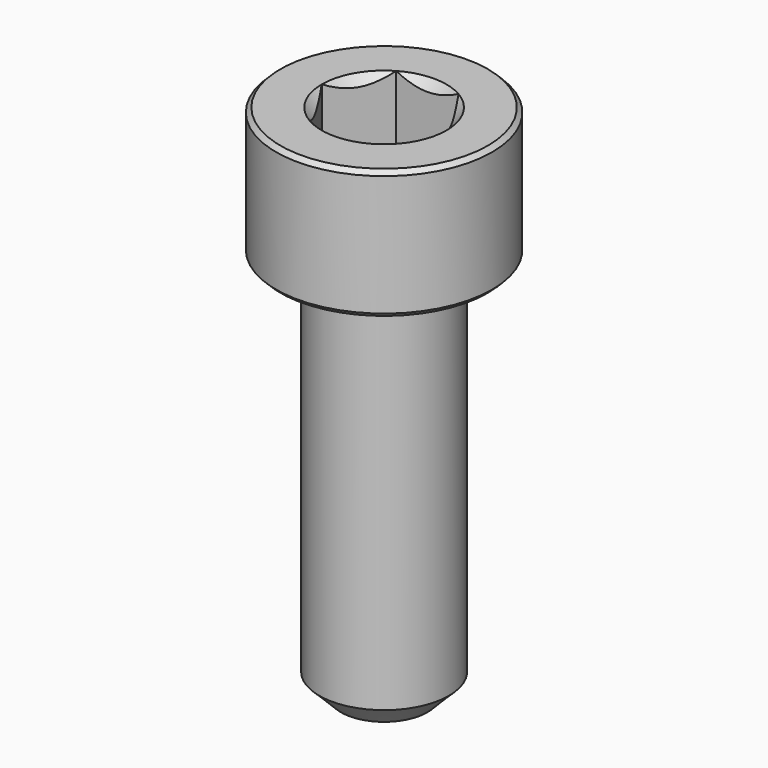
from build123d import *

# Parameters (mm, degrees)
SKETCH001_R     = 6
POCKET_DEPTH    = 8.820854
CHAMFER_SIZE    = 0.2
CHAMFER001_SIZE = 1


with BuildPart() as pocket:
    # Sketch003 → Revolution001 (revolve)
    with BuildSketch(Plane.XZ):
        Polygon((0, 1.180146), (5, 3), (5, 10), (0, 10), align=None)
    revolve(axis=Axis((0, 0, 0), (0, 0, 1)))

    # Sketch001 (on Face3 of Revolution001) → Pocket (cut, through all)
    with BuildSketch(Plane(origin=(0, 0, 10), x_dir=(-1, 0, 0), z_dir=(0, 0, 1))):
        Circle(SKETCH001_R)
        Polygon((-1.443376, 2.5), (1.443376, 2.5), (2.886751, 0), (1.443376, -2.5), (-1.443376, -2.5), (-2.886751, 0), align=None, mode=Mode.SUBTRACT)
    extrude(amount=-POCKET_DEPTH, mode=Mode.SUBTRACT)


with BuildPart() as chamfer001:
    # Sketch → Revolution (revolve)
    with BuildSketch(Plane.XZ):
        Polygon((2.88675, 6), (5, 6), (5, 0), (3, 0), (3, -18), (0, -18), (0, 3.113247), align=None)
    revolve(axis=Axis((0, 0, 0), (0, 0, 1)))

    # Cut: cut Pocket
    add(pocket.part, mode=Mode.SUBTRACT)

    # Chamfer
    chamfer_edges = [chamfer001.edges().sort_by_distance(p)[0] for p in [
        (-5, 0, 6),
        (-5, 0, 0),
    ]]
    chamfer(chamfer_edges, length=CHAMFER_SIZE)

    # Chamfer001
    chamfer001_edges = [chamfer001.edges().sort_by_distance(p)[0] for p in [
        (-3, 0, -18),
    ]]
    chamfer(chamfer001_edges, length=CHAMFER001_SIZE)


solid = chamfer001.part
